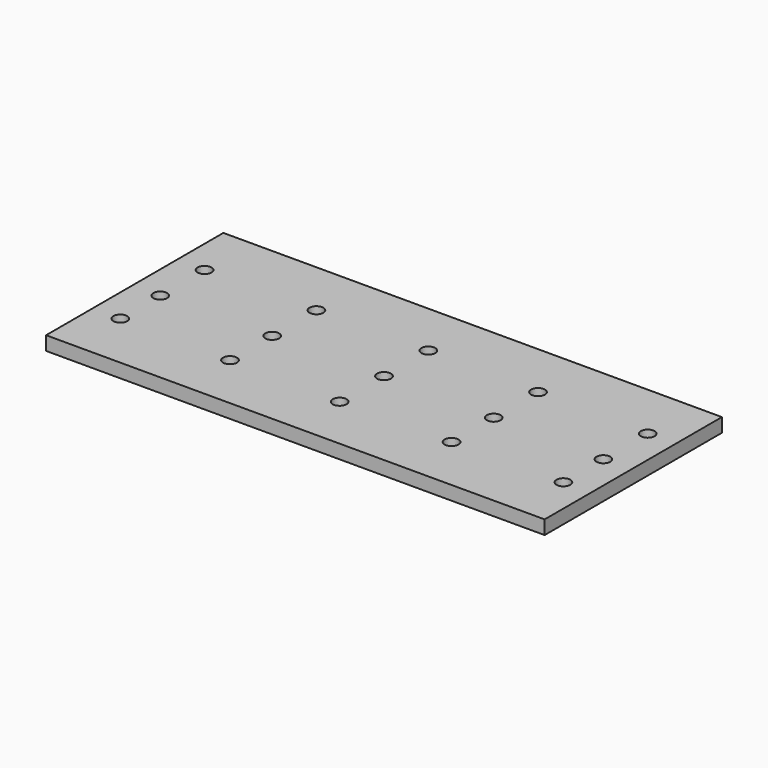
from build123d import *

# Parameters (mm, degrees)
F0_W     = 457.2
F0_H     = 203.2
F1_DEPTH = 12.7
F2_R     = 6.35
F3_DEPTH = 25.4


with BuildPart() as f1:
    # F0 (on Top) → F1 (new body)
    with BuildSketch(Plane.XY):
        Rectangle(F0_W, F0_H)
    extrude(amount=-F1_DEPTH)

    # F2 (on face) → F3 (cut)
    with BuildSketch(Plane.XY):
        Circle(F2_R)
        with Locations((0, 50.8)):
            Circle(F2_R)
        with Locations((101.59225, -1.254837)):
            Circle(F2_R)
        with Locations((101.59225, 49.545163)):
            Circle(F2_R)
        with Locations((203.1845, -2.509675)):
            Circle(F2_R)
        with Locations((203.1845, 48.290325)):
            Circle(F2_R)
        with Locations((101.59225, -49.545163)):
            Circle(F2_R)
        with Locations((203.1845, -48.290325)):
            Circle(F2_R)
        with Locations((0, -50.8)):
            Circle(F2_R)
        with Locations((-101.59225, -1.254837)):
            Circle(F2_R)
        with Locations((-101.59225, -49.545163)):
            Circle(F2_R)
        with Locations((-203.1845, -48.290325)):
            Circle(F2_R)
        with Locations((-101.59225, 49.545163)):
            Circle(F2_R)
        with Locations((-203.1845, -2.509675)):
            Circle(F2_R)
        with Locations((-203.1845, 48.290325)):
            Circle(F2_R)
    extrude(amount=-F3_DEPTH, mode=Mode.SUBTRACT)


solid = f1.part
